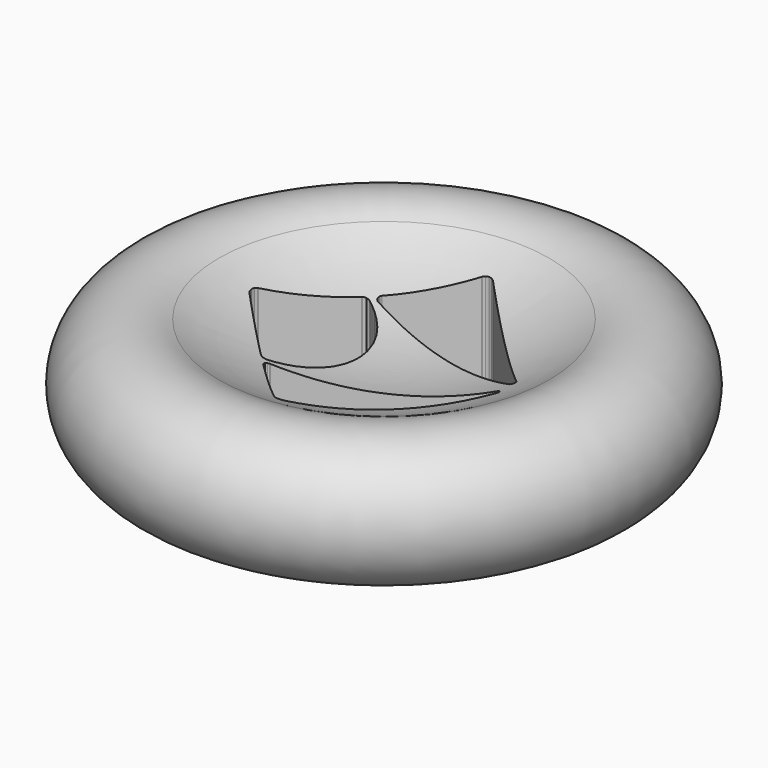
from build123d import *

# Parameters (mm, degrees)
F4_DEPTH = 20


with BuildPart() as f1:
    # F0 (on Front) → F1 (revolve)
    with BuildSketch(Plane.XZ):
        with BuildLine():
            ThreePointArc((-7.5, 0), (-5.732233, 0.732233), (-5, 2.5))
            ThreePointArc((-5, 2.5), (-5.336434, 3.752591), (-6.255187, 4.66805))
            ThreePointArc((-6.255187, 4.66805), (-9.915587, 3.144157), (-7.5, 0))
        make_face()
        with BuildLine():
            ThreePointArc((-6.255187, 4.66805), (-5.336434, 3.752591), (-5, 2.5))
            ThreePointArc((-5, 2.5), (-5.732233, 0.732233), (-7.5, 0))
            Line((-7.5, 0), (0, 0))
            Line((0, 0), (0, 3))
            ThreePointArc((0, 3), (-3.236887, 3.424174), (-6.255187, 4.66805))
        make_face()
    revolve(axis=Axis((0, 0, 1.5), (0, 0, 1)))

    # F3 (on offset) → F4 (cut)
    with BuildSketch(Plane.XY.offset(15)):
        Polygon((4.653195, 0.459226), (4.640465, 0.472158), (0.2023, 4.910323), (0.181042, 4.931338), (0.100782, 4.977652), (-0.014517, 5), (-0.129855, 4.977652), (-0.209914, 4.931338), (-0.230929, 4.910323), (-2.329216, 2.812076), (-2.34328, 2.798255), (-2.370195, 2.741676), (-2.371327, 2.664285), (-2.335804, 2.595664), (-2.286459, 2.557069), (-2.267586, 2.550684), (4.524479, 0.284722), (4.541776, 0.279024), (4.602113, 0.286258), (4.656468, 0.332491), (4.673806, 0.402001), align=None)
        Polygon((-2.337986, -2.803504), (-2.323963, -2.817536), (-0.230929, -4.910542), (-0.210116, -4.93137), (-0.129855, -4.977635), (-0.014517, -5), (0.100782, -4.977635), (0.181285, -4.931593), (0.2023, -4.910542), (4.639616, -0.473266), (4.652508, -0.460333), (4.672917, -0.402866), (4.65562, -0.333396), (4.601224, -0.287123), (4.540927, -0.279889), (4.52359, -0.285789), (-2.262333, -2.556398), (-2.281165, -2.562541), (-2.330752, -2.601128), (-2.366033, -2.669757), (-2.364942, -2.746934), align=None)
        Polygon((-0.987138, -0.125309), (-0.987138, 0.000982), (-0.987138, 0.127515), (-1.034704, 0.506792), (-1.163218, 0.95077), (-1.352392, 1.334937), (-1.581291, 1.661192), (-1.829509, 1.931313), (-2.076433, 2.147281), (-2.301372, 2.31063), (-2.437039, 2.396791), (-2.483352, 2.4231), (-2.505458, 2.43579), (-2.625646, 2.451389), (-2.737227, 2.40552), (-2.755211, 2.387334), (-4.924747, 0.217596), (-4.945802, 0.196581), (-4.992277, 0.116523), (-5.014626, 0.001225), (-4.992277, -0.114114), (-4.946045, -0.194375), (-4.924747, -0.215632), (-2.752786, -2.387573), (-2.734802, -2.405553), (-2.622777, -2.451377), (-2.502629, -2.43581), (-2.480483, -2.423092), (-2.43425, -2.396346), (-2.298745, -2.309959), (-2.07425, -2.146173), (-1.827771, -1.929992), (-1.579998, -1.659648), (-1.351583, -1.332961), (-1.162976, -0.948604), (-1.034502, -0.504384), align=None)
    extrude(amount=-F4_DEPTH, mode=Mode.SUBTRACT)


solid = f1.part
